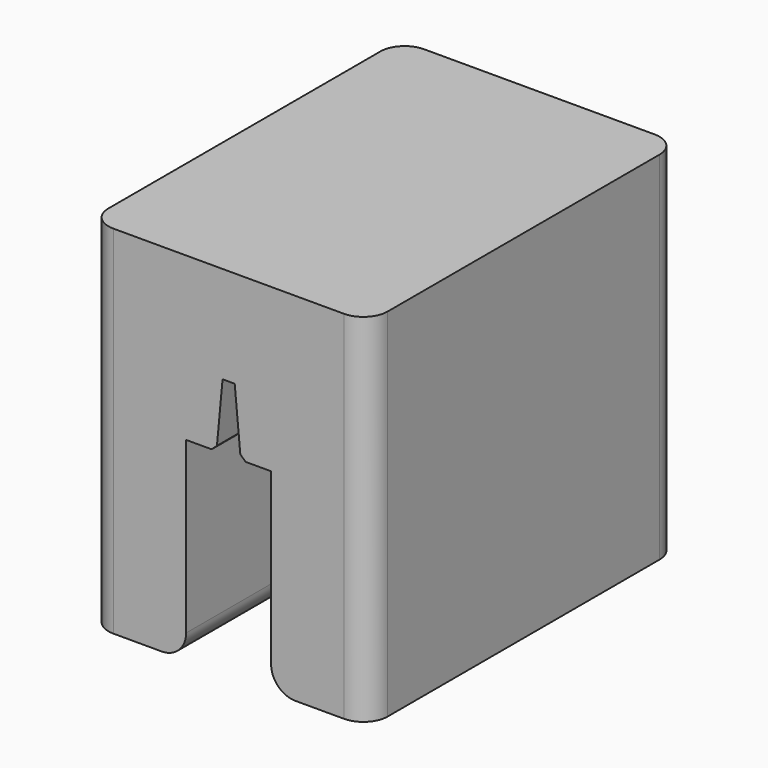
from build123d import *

# Parameters (mm, degrees)
F1_DEPTH = 80
F2_R     = 5
F3_SIZE  = 1


with BuildPart() as f1:
    # F0 (on Front) → F1 (new body)
    with BuildSketch(Plane.XZ):
        Polygon((-1.25, 0), (0, 0), (1.25, 0), (2.5, -13.436909), (8.75, -13.436909), (8.75, -53.436909), (28.75, -53.436909), (28.75, 6.563091), (28.75, 20), (19.475808, 20), (0, 20), (-19.475808, 20), (-28.75, 20), (-28.75, 6.563091), (-28.75, -53.436909), (-8.75, -53.436909), (-8.75, -13.436909), (-2.5, -13.436909), align=None)
    extrude(amount=F1_DEPTH)

    # F2
    f2_edges = [f1.edges().sort_by_distance(p)[0] for p in [
        (28.75, -80, -16.718455),
        (-28.75, -80, -16.718455),
        (28.75, 0, -16.718455),
        (-8.75, -40, -53.436909),
        (8.75, -40, -53.436909),
        (-28.75, 0, -16.718455),
    ]]
    fillet(f2_edges, radius=F2_R)

    # F3
    f3_edges = [f1.edges().sort_by_distance(p)[0] for p in [
        (2.5, -40, -13.436909),
        (-2.5, -40, -13.436909),
    ]]
    chamfer(f3_edges, length=F3_SIZE)


solid = f1.part
